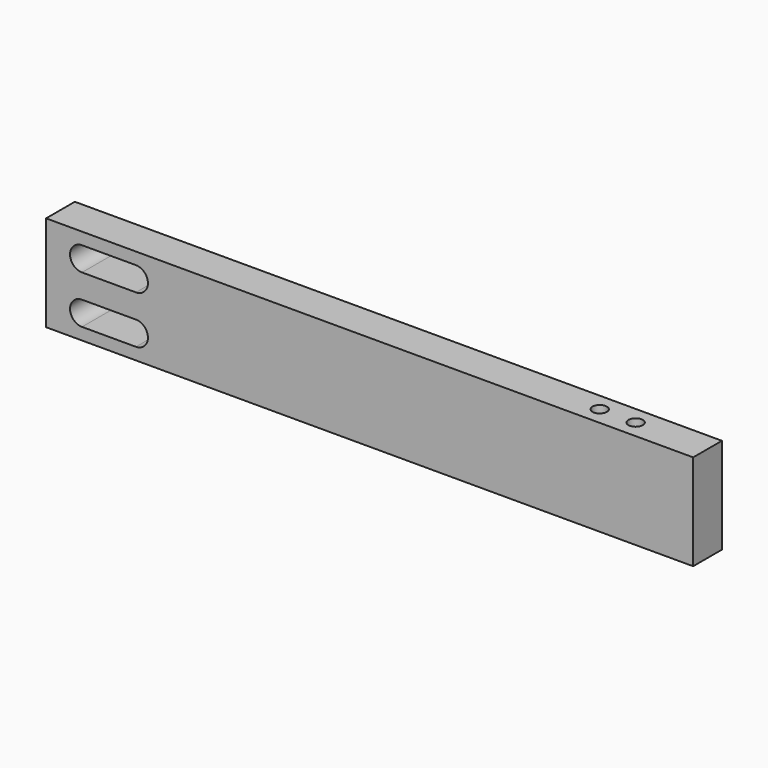
from build123d import *

# Parameters (mm, degrees)
F0_W     = 108
F0_H     = 16
F1_DEPTH = 3
F3_D     = 2.4
F3_DEPTH = 6
F3_TIP   = 0.7210327428
F5_D     = 2.4
F5_DEPTH = 6
F5_TIP   = 0.7210327428


with BuildPart() as f1:
    # F0 (on Front) → F1 (new body, symmetric)
    with BuildSketch(Plane.XZ):
        Rectangle(F0_W, F0_H)
        with BuildLine():
            ThreePointArc((-39, -2), (-37, -4), (-39, -6))
            Line((-39, -6), (-48, -6))
            ThreePointArc((-48, -6), (-50, -4), (-48, -2))
            Line((-48, -2), (-39, -2))
        make_face(mode=Mode.SUBTRACT)
        with BuildLine():
            ThreePointArc((-39, 6), (-37, 4), (-39, 2))
            Line((-39, 2), (-48, 2))
            ThreePointArc((-48, 2), (-50, 4), (-48, 6))
            Line((-48, 6), (-39, 6))
        make_face(mode=Mode.SUBTRACT)
    extrude(amount=F1_DEPTH, both=True)

    # F3
    with Locations(Plane(origin=(0, 0, -8), x_dir=(1, 0, 0), z_dir=(0, 0, -1))):
        with Locations((36, 0), (42, 0)):
            Hole(F3_D / 2, depth=F3_DEPTH)
            with Locations((0, 0, -(F3_DEPTH + F3_TIP / 2))):  # 118° drill point
                Cone(0, F3_D / 2, F3_TIP, mode=Mode.SUBTRACT)

    # F5
    with Locations(Plane.XY.offset(8)):
        with Locations((36, 0), (42, 0)):
            Hole(F5_D / 2, depth=F5_DEPTH)
            with Locations((0, 0, -(F5_DEPTH + F5_TIP / 2))):  # 118° drill point
                Cone(0, F5_D / 2, F5_TIP, mode=Mode.SUBTRACT)


solid = f1.part
